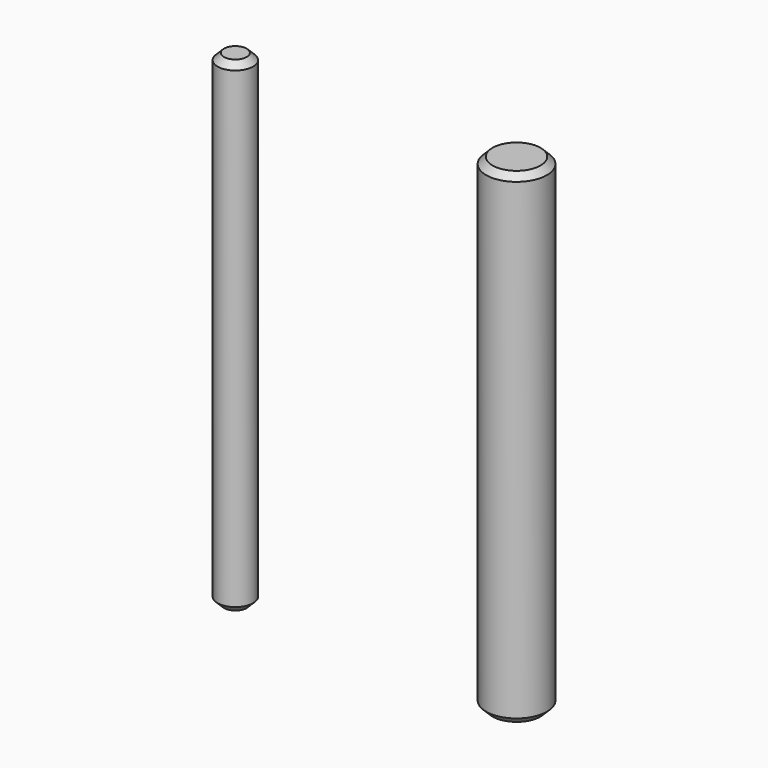
from build123d import *

# Parameters (mm, degrees)
F0_R     = 1.39
F0_R_2   = 2.38
F1_DEPTH = 38
F2_SIZE  = 0.5


with BuildPart() as f1:
    # F0 (on Top) → F1 (new body)
    with BuildSketch(Plane.XY):
        with Locations((-12.500409, 0)):
            Circle(F0_R)
        with Locations((9.524267, 0)):
            Circle(F0_R_2)
    extrude(amount=F1_DEPTH)

    # F2
    f2_edges = [f1.edges().sort_by_distance(p)[0] for p in [
        (-13.890409, 0, 38),
        (7.144267, 0, 38),
        (7.144267, 0, 0),
        (-13.890409, 0, 0),
    ]]
    chamfer(f2_edges, length=F2_SIZE)


solid = f1.part
